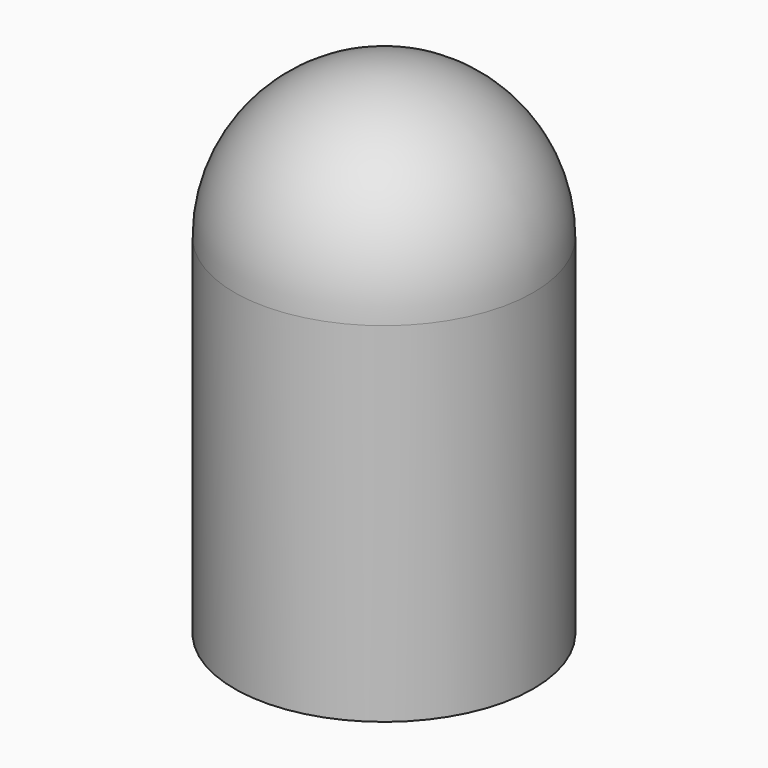
from build123d import *

# Parameters (mm, degrees)
F0_R     = 7.5
F1_DEPTH = 25
F3_D     = 5
F3_DEPTH = 20
F3_TIP   = 1.5021515476
F5_D     = 11
F5_DEPTH = 11
F5_TIP   = 3.3047334047
F6_R     = 7.5


with BuildPart() as f1:
    # F0 (on Top) → F1 (new body)
    with BuildSketch(Plane.XY):
        Circle(F0_R)
    extrude(amount=F1_DEPTH)

    # F3
    with Locations(Plane(origin=(0, 0, 0), x_dir=(1, 0, 0), z_dir=(0, 0, -1))):
        with Locations((0, 0)):
            Hole(F3_D / 2, depth=F3_DEPTH)
            with Locations((0, 0, -(F3_DEPTH + F3_TIP / 2))):  # 118° drill point
                Cone(0, F3_D / 2, F3_TIP, mode=Mode.SUBTRACT)

    # F5
    with Locations(Plane(origin=(0, 0, 0), x_dir=(1, 0, 0), z_dir=(0, 0, -1))):
        with Locations((0, 0)):
            Hole(F5_D / 2, depth=F5_DEPTH)
            with Locations((0, 0, -(F5_DEPTH + F5_TIP / 2))):  # 118° drill point
                Cone(0, F5_D / 2, F5_TIP, mode=Mode.SUBTRACT)

    # F6
    f6_edges = [f1.edges().sort_by_distance(p)[0] for p in [
        (-7.5, 0, 25),
    ]]
    fillet(f6_edges, radius=F6_R)


solid = f1.part
